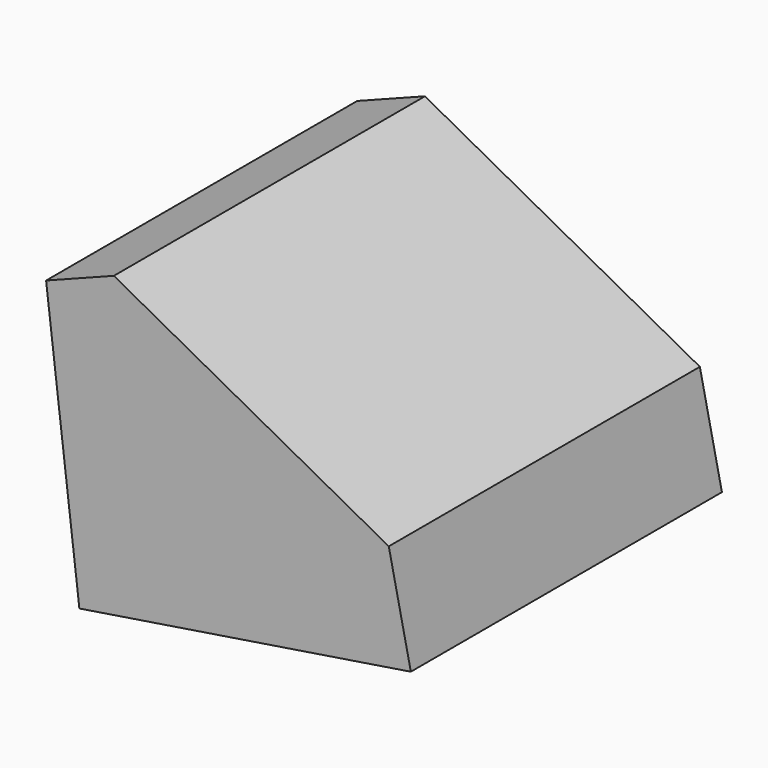
from build123d import *

# Parameters (mm, degrees)
F1_DEPTH = 82.042
F2_SIZE  = 50.8


with BuildPart() as f1:
    # F0 (on Front) → F1 (new body)
    with BuildSketch(Plane.XZ):
        Polygon((16.948685, 57.259064), (-44.738416, 33.439294), (-37.714638, -25.193989), (32.217763, -14.200249), align=None)
    extrude(amount=F1_DEPTH)

    # F2
    f2_edges = [f1.edges().sort_by_distance(p)[0] for p in [
        (16.948685, -41.021, 57.259064),
    ]]
    chamfer(f2_edges, length=F2_SIZE)


solid = f1.part
